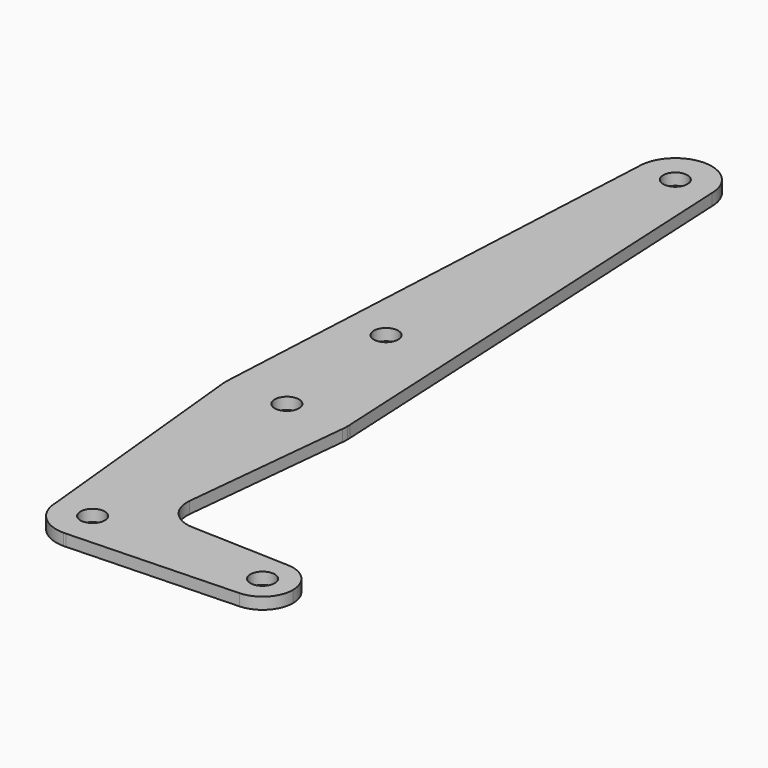
from build123d import *

# Parameters (mm, degrees)
F0_R     = 3.175
F1_DEPTH = 3.048


with BuildPart() as f1:
    # F0 (on Top) → F1 (new body)
    with BuildSketch(Plane.XY):
        with BuildLine():
            ThreePointArc((-9.525, 190.5), (0, 180.975), (9.525, 190.5))
            ThreePointArc((9.525, 190.5), (0, 200.025), (-9.525, 190.5))
        make_face()
        with Locations((0, 190.5)):
            Circle(F0_R, mode=Mode.SUBTRACT)
        with BuildLine():
            Line((15.855069, 64.295245), (9.525, 190.5))
            ThreePointArc((9.525, 190.5), (0, 180.975), (-9.525, 190.5))
            Line((-9.525, 190.5), (-15.855069, 64.295245))
            ThreePointArc((-15.855069, 64.295245), (0, 79.375), (15.855069, 64.295245))
        make_face()
        with Locations((-3.175, 99.886943)):
            Circle(F0_R, mode=Mode.SUBTRACT)
        with BuildLine():
            ThreePointArc((15.875, 63.5), (15.870016, 63.897747), (15.855069, 64.295245))
            ThreePointArc((15.855069, 64.295245), (0, 79.375), (-15.855069, 64.295245))
            ThreePointArc((-15.855069, 64.295245), (-15.869875, 63.096663), (-15.794203, 61.90038))
            ThreePointArc((-15.794203, 61.90038), (0, 47.625), (15.794203, 61.90038))
            ThreePointArc((15.794203, 61.90038), (15.854788, 62.699171), (15.875, 63.5))
        make_face()
        with Locations((0, 63.5)):
            Circle(F0_R, mode=Mode.SUBTRACT)
        with BuildLine():
            ThreePointArc((15.794203, 61.90038), (0, 47.625), (-15.794203, 61.90038))
            Line((-15.794203, 61.90038), (-9.525, 0))
            ThreePointArc((-9.525, 0), (0, 9.525), (9.525, 0))
            ThreePointArc((9.525, 0), (6.970557, -6.491299), (0.677344, -9.500886))
            Line((0.677344, -9.500886), (44.732405, -7.932475))
            ThreePointArc((44.732405, -7.932475), (36.5125, 0), (44.732405, 7.932475))
            Line((44.732405, 7.932475), (18.934103, 8.850924))
            ThreePointArc((18.934103, 8.850924), (13.224974, 11.57098), (11.307223, 17.59718))
            Line((11.307223, 17.59718), (15.794203, 61.90038))
        make_face()
        with BuildLine():
            ThreePointArc((9.525, 0), (0, 9.525), (-9.525, 0))
            ThreePointArc((-9.525, 0), (-6.735192, -6.735192), (0, -9.525))
            Line((0, -9.525), (0.677344, -9.500886))
            ThreePointArc((0.677344, -9.500886), (6.970557, -6.491299), (9.525, 0))
        make_face()
        Circle(F0_R, mode=Mode.SUBTRACT)
        with BuildLine():
            Line((0.677344, -9.500886), (0, -9.525))
            ThreePointArc((0, -9.525), (0.338886, -9.51897), (0.677344, -9.500886))
        make_face()
        with BuildLine():
            ThreePointArc((52.3875, 0), (50.161633, 5.51191), (44.732405, 7.932475))
            ThreePointArc((44.732405, 7.932475), (36.5125, 0), (44.732405, -7.932475))
            ThreePointArc((44.732405, -7.932475), (50.161633, -5.51191), (52.3875, 0))
        make_face()
        with Locations((44.45, 0)):
            Circle(F0_R, mode=Mode.SUBTRACT)
    extrude(amount=F1_DEPTH)


solid = f1.part
